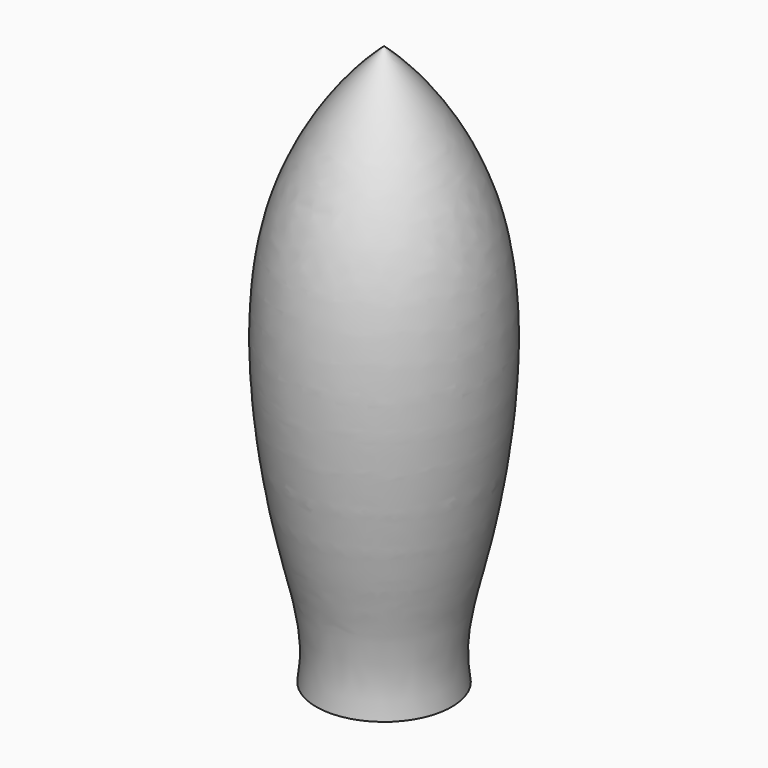
from build123d import *


with BuildPart() as f1:
    # F0 (on Front) → F1 (revolve)
    with BuildSketch(Plane.XZ):
        with BuildLine():
            Line((0, 0), (0, 96.3922842286))
            add(Edge.make_bspline(
                [(0, 96.3922842286), (-6.0805005186, 91.0146366874), (-22.2881599047, 69.9864414579), (-15.4457346094, 20.9182515268), (-10.4500178033, 7.625289715), (-11.6755372688, 0)],
                knots=[0, 0, 0, 0, 0.3279095417, 0.7290914664, 1, 1, 1, 1], degree=3))
            Line((-11.6755372688, 0), (0, 0))
        make_face()
    revolve(axis=Axis((0, 0, 48.1961421143), (0, 0, -1)))


solid = f1.part
